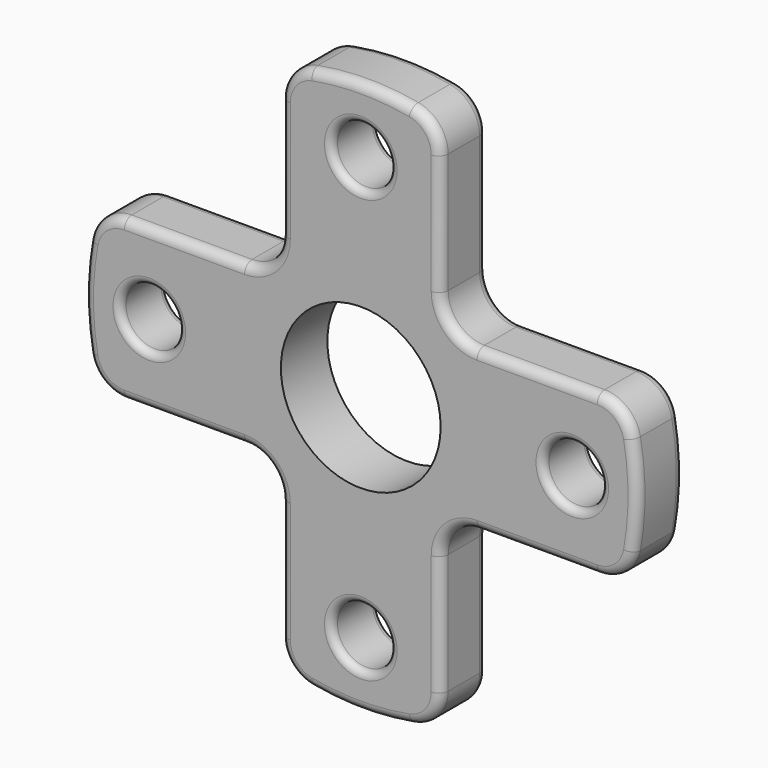
from build123d import *

# Parameters (mm, degrees)
F0_R     = 4
F0_R_2   = 11
F1_DEPTH = 8
F2_R     = 1.3
F3_R     = 1


with BuildPart() as f1:
    # F0 (on Front) → F1 (new body)
    with BuildSketch(Plane.XZ):
        with BuildLine():
            ThreePointArc((-32.551651, 11), (-35.750735, 9.842637), (-37.468819, 6.906344))
            ThreePointArc((-37.468819, 6.906344), (-38.1, 0), (-37.468819, -6.906344))
            ThreePointArc((-37.468819, -6.906344), (-35.750735, -9.842637), (-32.551651, -11))
            Line((-32.551651, -11), (-16, -11))
            ThreePointArc((-16, -11), (-12.464466, -12.464466), (-11, -16))
            Line((-11, -16), (-11, -32.551651))
            ThreePointArc((-11, -32.551651), (-9.842637, -35.750735), (-6.906344, -37.468819))
            ThreePointArc((-6.906344, -37.468819), (0, -38.1), (6.906344, -37.468819))
            ThreePointArc((6.906344, -37.468819), (9.842637, -35.750735), (11, -32.551651))
            Line((11, -32.551651), (11, -16))
            ThreePointArc((11, -16), (12.464466, -12.464466), (16, -11))
            Line((16, -11), (32.551651, -11))
            ThreePointArc((32.551651, -11), (35.750735, -9.842637), (37.468819, -6.906344))
            ThreePointArc((37.468819, -6.906344), (38.1, 0), (37.468819, 6.906344))
            ThreePointArc((37.468819, 6.906344), (35.750735, 9.842637), (32.551651, 11))
            Line((32.551651, 11), (16, 11))
            ThreePointArc((16, 11), (12.464466, 12.464466), (11, 16))
            Line((11, 16), (11, 32.551651))
            ThreePointArc((11, 32.551651), (9.842637, 35.750735), (6.906344, 37.468819))
            ThreePointArc((6.906344, 37.468819), (0, 38.1), (-6.906344, 37.468819))
            ThreePointArc((-6.906344, 37.468819), (-9.842637, 35.750735), (-11, 32.551651))
            Line((-11, 32.551651), (-11, 16))
            ThreePointArc((-11, 16), (-12.464466, 12.464466), (-16, 11))
            Line((-16, 11), (-32.551651, 11))
        make_face()
        with Locations((0, -29.11544)):
            Circle(F0_R, mode=Mode.SUBTRACT)
        with Locations((-29.11544, 0)):
            Circle(F0_R, mode=Mode.SUBTRACT)
        Circle(F0_R_2, mode=Mode.SUBTRACT)
        with Locations((29.11544, 0)):
            Circle(F0_R, mode=Mode.SUBTRACT)
        with Locations((0, 29.11544)):
            Circle(F0_R, mode=Mode.SUBTRACT)
    extrude(amount=F1_DEPTH)

    # F2
    f2_edges = [f1.edges().sort_by_distance(p)[0] for p in [
        (11, -8, -24.275826),
        (12.464466, -8, -12.464466),
        (11, 0, -24.275826),
    ]]
    fillet(f2_edges, radius=F2_R)

    # F3
    f3_edges = [f1.edges().sort_by_distance(p)[0] for p in [
        (-4, -8, 29.11544),
        (-33.11544, -8, 0),
        (-4, -8, -29.11544),
        (25.11544, -8, 0),
        (-4, 0, -29.11544),
        (25.11544, 0, 0),
        (-4, 0, 29.11544),
        (-33.11544, 0, 0),
    ]]
    fillet(f3_edges, radius=F3_R)


solid = f1.part
